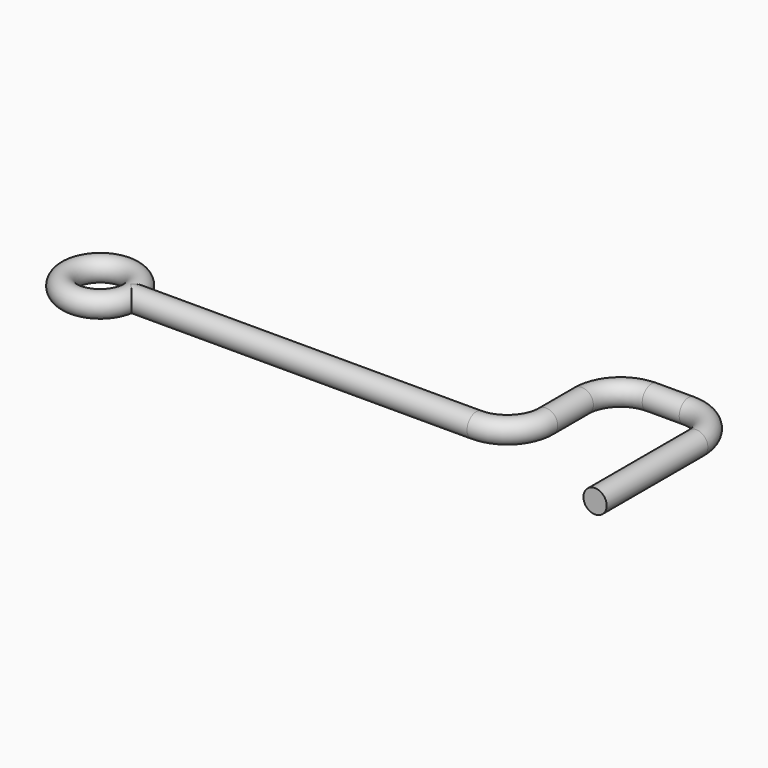
from build123d import *

# Parameters (mm, degrees)
F1_R = 1.5
F3_R = 1.5


with BuildPart() as f2:
    # F2: sweep along a path in F0
    with BuildLine(Plane.XY) as f2_path:
        Line((0, 0), (44.59869, 0))
        ThreePointArc((44.59869, 0), (48.134224, 1.464466), (49.59869, 5))
        Line((49.59869, 5), (49.59869, 10.76419))
        ThreePointArc((49.59869, 10.76419), (51.063156, 14.299724), (54.59869, 15.76419))
        Line((54.59869, 15.76419), (59.372659, 15.76419))
        ThreePointArc((59.372659, 15.76419), (62.908193, 14.299724), (64.372659, 10.76419))
        Line((64.372659, 10.76419), (64.372659, -5.566145))
    # F1 (on Right) → F2 (sweep)
    with BuildSketch(Plane.YZ):
        Circle(F1_R)
    sweep(path=f2_path.line)


with BuildPart() as f4:
    # F4: sweep along a path in F0
    with BuildLine(Plane.XY) as f4_path:
        CenterArc((-3.952576, 0), 3.952576, 0, 360)
    # F3 (on Front) → F4 (sweep)
    with BuildSketch(Plane.XZ):
        Circle(F3_R)
    sweep(path=f4_path.line)


solid = Compound([f2.part, f4.part])
